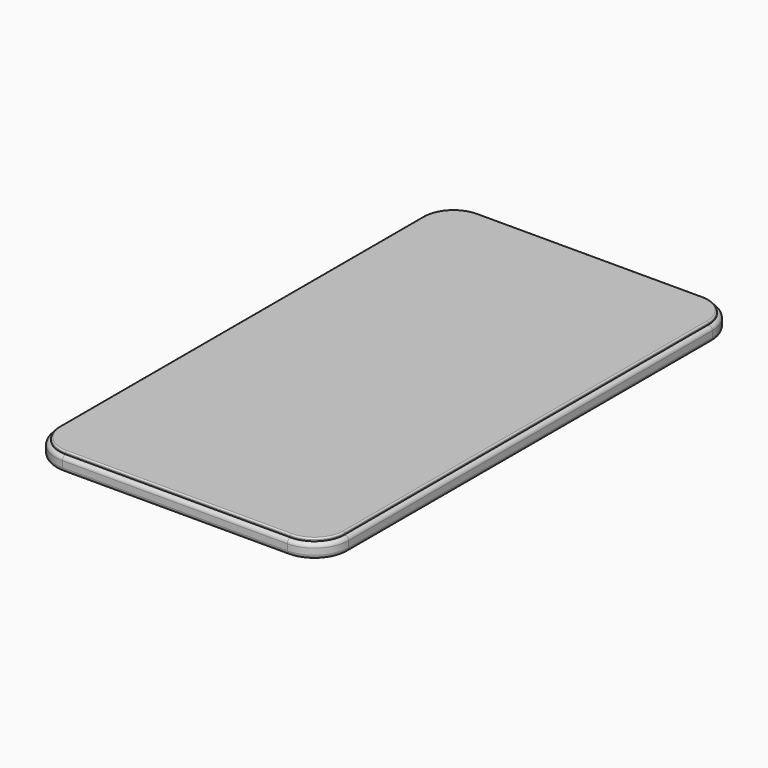
from build123d import *

# Parameters (mm, degrees)
F0_W     = 26.3863261789
F0_H     = 47.0887087286
F1_DEPTH = 1.27
F2_R     = 3.0660512242
F3_R     = 0.3556
F4_R     = 0.3556
F6_DEPTH = 0.254
F7_R     = 0.127


with BuildPart() as f1:
    # F0 (on Top) → F1 (new body)
    with BuildSketch(Plane.XY):
        with Locations((13.1931630895, 23.5443543643)):
            Rectangle(F0_W, F0_H)
    extrude(amount=F1_DEPTH)

    # F2
    f2_edges = [f1.edges().sort_by_distance(p)[0] for p in [
        (26.386326, 47.088709, 0.635),
        (26.386326, 0, 0.635),
        (0, 47.088709, 0.635),
        (0, 0, 0.635),
    ]]
    fillet(f2_edges, radius=F2_R)

    # F3
    f3_edges = [f1.edges().sort_by_distance(p)[0] for p in [
        (0, 23.544354, 0),
        (0.898026, 46.190683, 0),
        (0.898026, 0.898026, 0),
        (13.193163, 47.088709, 0),
        (13.193163, 0, 0),
        (25.488301, 46.190683, 0),
        (25.488301, 0.898026, 0),
        (26.386326, 23.544354, 0),
    ]]
    fillet(f3_edges, radius=F3_R)

    # F4
    f4_edges = [f1.edges().sort_by_distance(p)[0] for p in [
        (0, 23.544354, 1.27),
        (0.898026, 46.190683, 1.27),
        (0.898026, 0.898026, 1.27),
        (13.193163, 47.088709, 1.27),
        (13.193163, 0, 1.27),
        (25.488301, 46.190683, 1.27),
        (25.488301, 0.898026, 1.27),
        (26.386326, 23.544354, 1.27),
    ]]
    fillet(f4_edges, radius=F4_R)

    # F5 (on face) → F6 (join)
    with BuildSketch(Plane.XY.offset(1.27)):
        with BuildLine():
            Line((26.0307261789, 3.0660512242), (26.0307261789, 44.0226575043))
            ThreePointArc((26.0307261789, 44.0226575043), (25.2368533954, 45.9392359451), (23.3202749547, 46.7331087286))
            Line((23.3202749547, 46.7331087286), (3.0660512242, 46.7331087286))
            ThreePointArc((3.0660512242, 46.7331087286), (1.1494727835, 45.9392359451), (0.3556, 44.0226575043))
            Line((0.3556, 44.0226575043), (0.3556, 3.0660512242))
            ThreePointArc((0.3556, 3.0660512242), (1.1494727835, 1.1494727835), (3.0660512242, 0.3556))
            Line((3.0660512242, 0.3556), (23.3202749547, 0.3556))
            ThreePointArc((23.3202749547, 0.3556), (25.2368533954, 1.1494727835), (26.0307261789, 3.0660512242))
        make_face()
    extrude(amount=F6_DEPTH)

    # F7
    f7_edges = [f1.edges().sort_by_distance(p)[0] for p in [
        (26.030726, 23.544354, 1.524),
        (25.236853, 45.939236, 1.524),
        (13.193163, 46.733109, 1.524),
        (1.149473, 45.939236, 1.524),
        (0.3556, 23.544354, 1.524),
        (1.149473, 1.149473, 1.524),
        (13.193163, 0.3556, 1.524),
        (25.236853, 1.149473, 1.524),
    ]]
    fillet(f7_edges, radius=F7_R)


solid = f1.part
